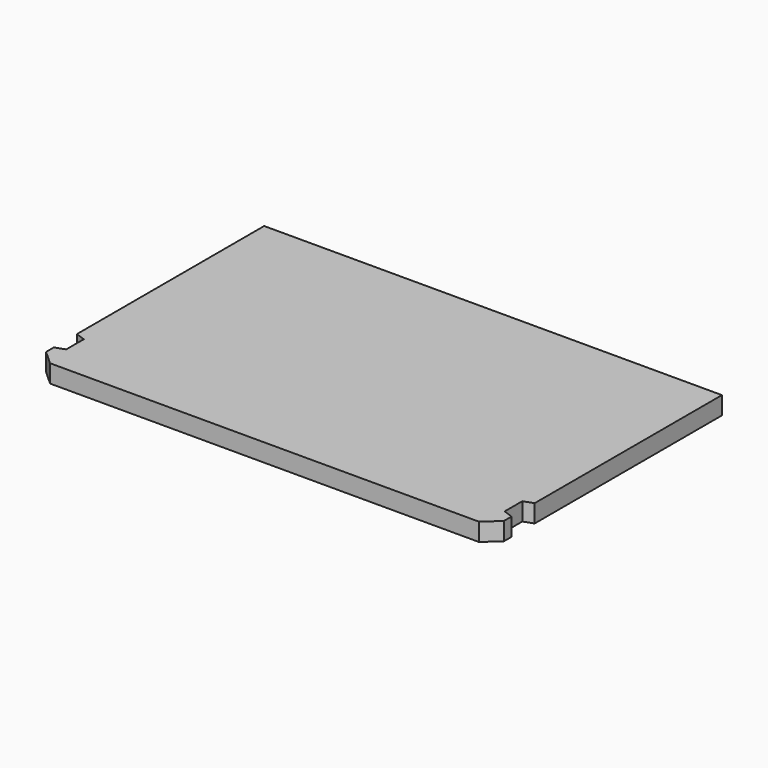
from build123d import *

# Parameters (mm, degrees)
PAD_DEPTH = 2.6


with BuildPart() as part:
    # Sketch → Pad (new body)
    with BuildSketch(Plane.XY):
        Polygon((-33.25, 20.75), (33.25, 20.75), (33.25, -13.25), (31.85, -13.75), (31.85, -16.95), (33.25, -17.45), (33.25, -18.85), (31.15, -20.75), (-31.15, -20.75), (-33.25, -18.85), (-33.25, -17.45), (-31.85, -16.95), (-31.85, -13.75), (-33.25, -13.25), align=None)
    extrude(amount=PAD_DEPTH)


solid = part.part
